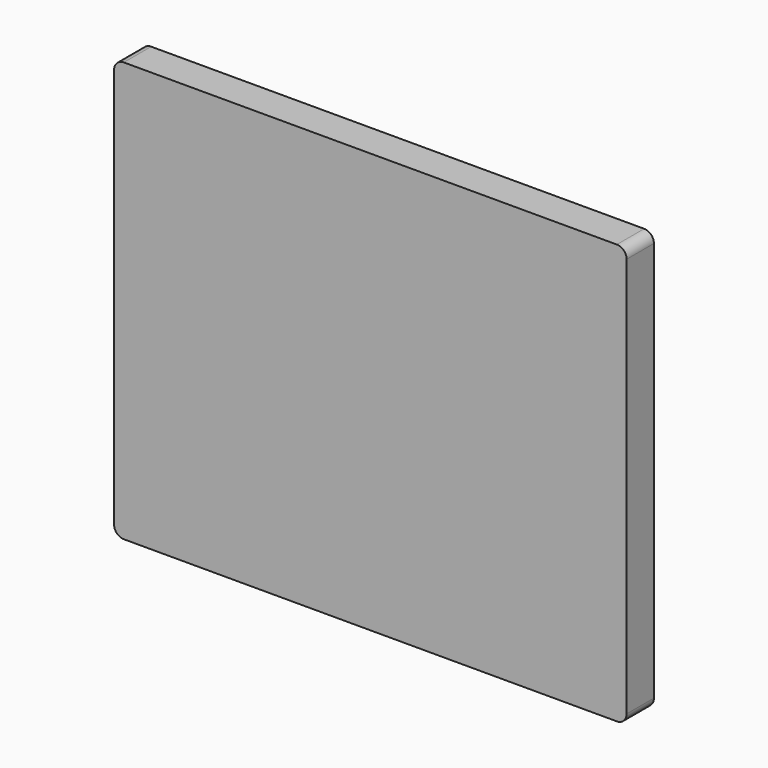
from build123d import *

# Parameters (mm, degrees)
F1_DEPTH  = 7
F3_DEPTH  = 4.4
F5_DEPTH  = 0.2
F7_DEPTH  = 0.1
F8_R      = 1
F9_DEPTH  = 1
F11_DEPTH = 1
F13_DEPTH = 0.1
F15_DEPTH = 0.1
F17_DEPTH = 0.1


with BuildPart() as f1:
    # F0 (on Front) → F1 (new body)
    with BuildSketch(Plane.XZ):
        with BuildLine():
            Line((50.5, 43), (-50.5, 43))
            ThreePointArc((-50.5, 43), (-51.914214, 42.414214), (-52.5, 41))
            Line((-52.5, 41), (-52.5, -41))
            ThreePointArc((-52.5, -41), (-51.914214, -42.414214), (-50.5, -43))
            Line((-50.5, -43), (50.5, -43))
            ThreePointArc((50.5, -43), (51.914214, -42.414214), (52.5, -41))
            Line((52.5, -41), (52.5, 41))
            ThreePointArc((52.5, 41), (51.914214, 42.414214), (50.5, 43))
        make_face()
    extrude(amount=F1_DEPTH)

    # F2 (on face) → F3 (cut)
    with BuildSketch(Plane(origin=(0, 0, 0), x_dir=(-1, 0, 0), z_dir=(0, 1, 0))):
        with BuildLine():
            Line((-50.7, -41.7), (50.7, -41.7))
            ThreePointArc((50.7, -41.7), (51.053553, -41.553553), (51.2, -41.2))
            Line((51.2, -41.2), (51.2, 41.2))
            ThreePointArc((51.2, 41.2), (51.053553, 41.553553), (50.7, 41.7))
            Line((50.7, 41.7), (-50.7, 41.7))
            ThreePointArc((-50.7, 41.7), (-51.053553, 41.553553), (-51.2, 41.2))
            Line((-51.2, 41.2), (-51.2, -41.2))
            ThreePointArc((-51.2, -41.2), (-51.053553, -41.553553), (-50.7, -41.7))
        make_face()
    extrude(amount=-F3_DEPTH, mode=Mode.SUBTRACT)


with BuildPart() as f5:
    # F4 (on face) → F5 (new body)
    with BuildSketch(Plane(origin=(0, 0, 0), x_dir=(-1, 0, 0), z_dir=(0, 1, 0))):
        with BuildLine():
            Line((50.7, 41.553553), (-51.2, 41.553553))
            Line((-51.2, 41.553553), (-51.2, -41.2))
            ThreePointArc((-51.2, -41.2), (-51.053553, -41.553553), (-50.7, -41.7))
            Line((-50.7, -41.7), (50.7, -41.7))
            ThreePointArc((50.7, -41.7), (51.053553, -41.553553), (51.2, -41.2))
            Line((51.2, -41.2), (51.2, 41.053553))
            ThreePointArc((51.2, 41.053553), (51.053553, 41.407107), (50.7, 41.553553))
        make_face()
    extrude(amount=F5_DEPTH)

    # F8 (on face) → F9 (join)
    with BuildSketch(Plane.XZ):
        with Locations((0, -15)):
            Circle(F8_R)
    extrude(amount=F9_DEPTH)


with BuildPart() as f7:
    # F6 (on face) → F7 (new body)
    with BuildSketch(Plane.XZ):
        with BuildLine():
            ThreePointArc((38.971143, 7.5), (0, 30), (-38.971143, 7.5))
            Line((-38.971143, 7.5), (-38.105118, 7))
            ThreePointArc((-38.105118, 7), (0, 29), (38.105118, 7))
            Line((38.105118, 7), (38.971143, 7.5))
        make_face()
    extrude(amount=F7_DEPTH)


with BuildPart() as f11:
    # F10 (on face) → F11 (new body)
    with BuildSketch(Plane.XZ.offset(1)):
        Polygon((-1.638596, -12.538512), (-27.104926, 18.382825), (-27.568072, 18.001385), (-2.101742, -12.919952), align=None)
    extrude(amount=F11_DEPTH)


with BuildPart() as f13:
    # F12 (on face) → F13 (new body)
    with BuildSketch(Plane.XZ.offset(2)):
        Polygon((-27.104926, 18.382825), (-27.568072, 18.001385), (-19.939281, 8.738472), (-19.476136, 9.119912), align=None)
    extrude(amount=F13_DEPTH)


with BuildPart() as f15:
    # F14 (on face) → F15 (new body)
    with BuildSketch(Plane(origin=(0, -4.4, 0), x_dir=(-1, 0, 0), z_dir=(0, 1, 0))):
        with BuildLine():
            Line((51.2, -11.7), (-51.2, -11.7))
            Line((-51.2, -11.7), (-51.2, -41.2))
            ThreePointArc((-51.2, -41.2), (-51.053553, -41.553553), (-50.7, -41.7))
            Line((-50.7, -41.7), (50.7, -41.7))
            ThreePointArc((50.7, -41.7), (51.053553, -41.553553), (51.2, -41.2))
            Line((51.2, -41.2), (51.2, -11.7))
        make_face()
    extrude(amount=F15_DEPTH)


with BuildPart() as f17:
    # F16 (on face) → F17 (new body)
    with BuildSketch(Plane.XZ.offset(0.1)):
        with BuildLine():
            Line((29.148348, 19.283725), (28.500607, 18.521865))
            ThreePointArc((28.500607, 18.521865), (33.79747, 13.173232), (38.105118, 7))
            Line((38.105118, 7), (38.971143, 7.5))
            ThreePointArc((38.971143, 7.5), (34.565594, 13.813533), (29.148348, 19.283725))
        make_face()
    extrude(amount=F17_DEPTH)


solid = Compound([f1.part, f5.part, f7.part, f11.part, f13.part, f15.part, f17.part])
